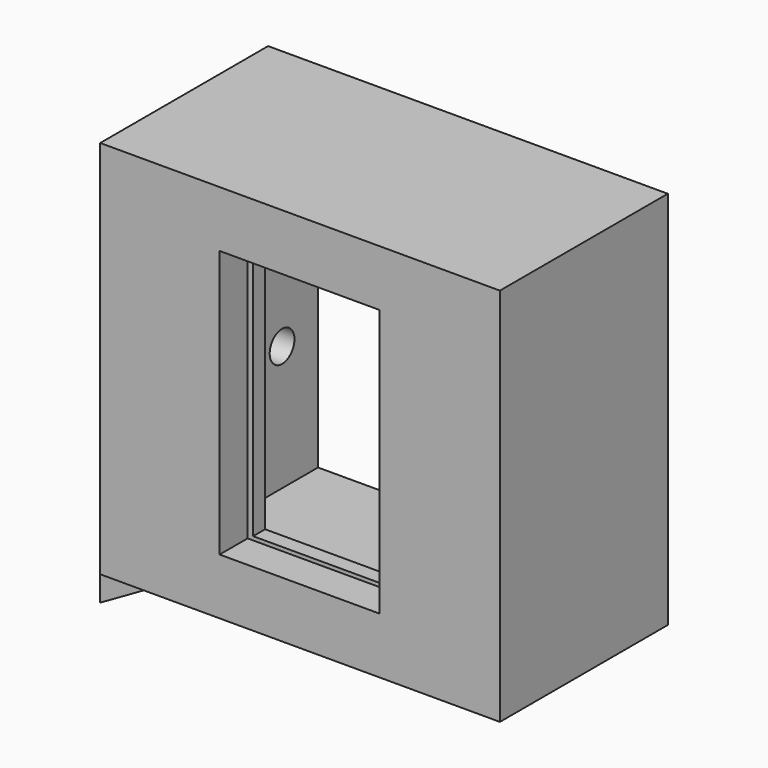
from build123d import *

# Parameters (mm, degrees)
SKETCH_W        = 80
SKETCH_H        = 76
SKETCH_W_2      = 32
SKETCH_H_2      = 53.5
PAD_DEPTH       = 7
SKETCH001_W     = 80
SKETCH001_H     = 76
SKETCH001_W_2   = 65
SKETCH001_H_2   = 66
PAD001_DEPTH    = 35
PAD005_DEPTH    = 5
SKETCH008_W     = 50.2
SKETCH008_H     = 5.3
POCKET_DEPTH    = 5
SKETCH012_R     = 3.1
POCKET003_DEPTH = 10
SKETCH013_W     = 35
SKETCH013_H     = 56
SKETCH013_W_2   = 30
SKETCH013_H_2   = 52
PAD008_DEPTH    = 3


with BuildPart() as part:
    # Sketch → Pad (new body)
    with BuildSketch(Plane.XZ):
        with Locations((0, 38)):
            Rectangle(SKETCH_W, SKETCH_H)
        with Locations((-0.1, 38)):
            Rectangle(SKETCH_W_2, SKETCH_H_2, mode=Mode.SUBTRACT)
    extrude(amount=PAD_DEPTH)

    # Sketch001 (on Face9 of Pad) → Pad001 (join)
    with BuildSketch(Plane(origin=(0, 0, 0), x_dir=(1, 0, 0), z_dir=(0, 1, 0))):
        with Locations((0, -38)):
            Rectangle(SKETCH001_W, SKETCH001_H)
        with Locations((2.5, -38)):
            Rectangle(SKETCH001_W_2, SKETCH001_H_2, mode=Mode.SUBTRACT)
    extrude(amount=PAD001_DEPTH)

    # Sketch005 (on Face12 of Pad001) → Pad005 (join)
    with BuildSketch(Plane(origin=(0, 0, 0), x_dir=(1, 0, 0), z_dir=(0, 0, -1))):
        Polygon((-40, -35), (-40, 7), (-35, -6.75), (-35, -35), align=None)
    extrude(amount=PAD005_DEPTH)

    # Sketch008 (on Face18 of Pad005) → Pocket (cut)
    with BuildSketch(Plane(origin=(-40, 0, 0), x_dir=(0, 0, -1), z_dir=(-1, 0, 0))):
        with Locations((-20.1, -15.5)):
            Rectangle(SKETCH008_W, SKETCH008_H)
    extrude(amount=-POCKET_DEPTH, mode=Mode.SUBTRACT)

    # Sketch012 (on Face16 of Pocket) → Pocket003 (cut)
    with BuildSketch(Plane(origin=(-40, 0, 0), x_dir=(0, 0, -1), z_dir=(-1, 0, 0))):
        with Locations((-30, -26)):
            Circle(SKETCH012_R)
    extrude(amount=-POCKET003_DEPTH, mode=Mode.SUBTRACT)

    # Sketch013 (on Face3 of Pocket003) → Pad008 (join)
    with BuildSketch(Plane(origin=(0, 0, 0), x_dir=(1, 0, 0), z_dir=(0, 1, 0))):
        with Locations((0, -38)):
            Rectangle(SKETCH013_W, SKETCH013_H)
        with Locations((0, -38)):
            Rectangle(SKETCH013_W_2, SKETCH013_H_2, mode=Mode.SUBTRACT)
    extrude(amount=PAD008_DEPTH)


with BuildPart() as part_1:
    # Body placement: moved
    add(part.part.moved(Location((0, -43, 0))))


solid = part_1.part
